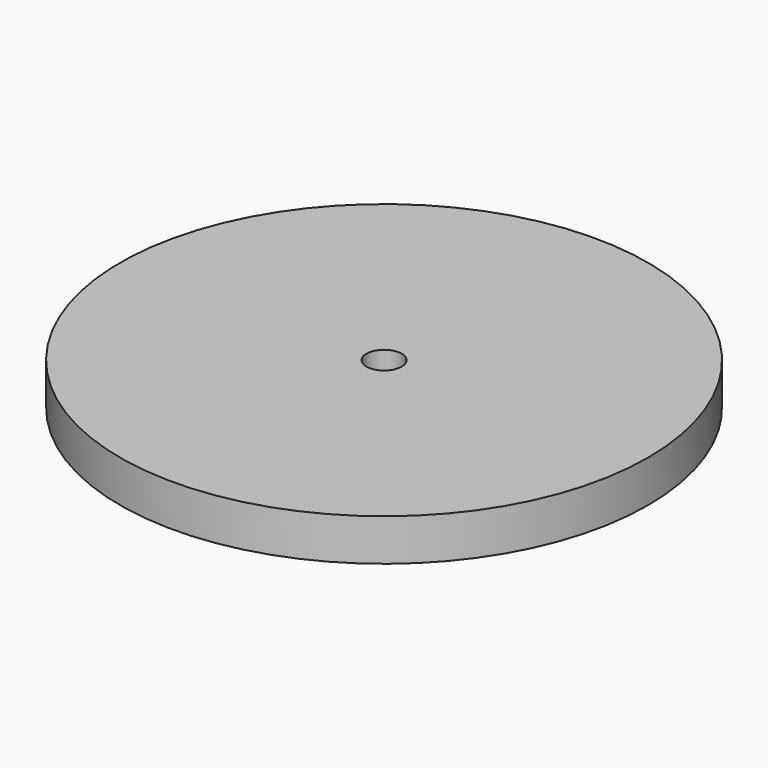
from build123d import *

# Parameters (mm, degrees)
SKETCH010_R   = 60
SKETCH010_R_2 = 4
PAD003_DEPTH  = 9.525


with BuildPart() as part:
    # Sketch010 → Pad003 (new body)
    with BuildSketch(Plane.XY):
        Circle(SKETCH010_R)
        Circle(SKETCH010_R_2, mode=Mode.SUBTRACT)
    extrude(amount=PAD003_DEPTH)


with BuildPart() as part_1:
    # Body002 placement: moved
    add(part.part.moved(Location((45.071194, -32.948698, 17.491833))))


solid = part_1.part
